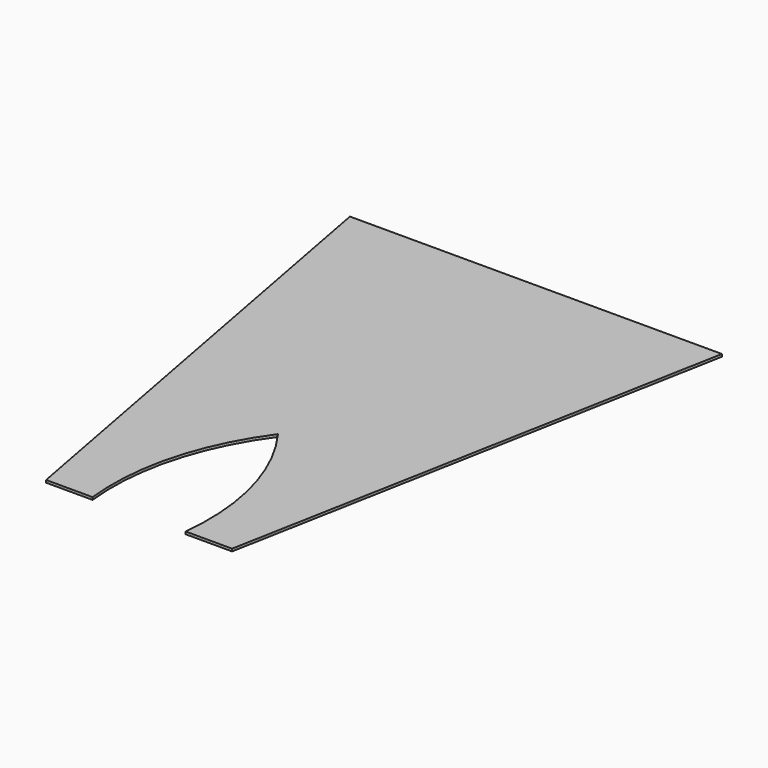
from build123d import *

# Parameters (mm, degrees)
F1_DEPTH = 4


with BuildPart() as f1:
    # F0 (on Top) → F1 (new body)
    with BuildSketch(Plane.XY):
        with BuildLine():
            ThreePointArc((0, 280), (63.755767, 147.032795), (75, 0))
            Line((75, 0), (150, 0))
            Line((150, 0), (300, 800))
            Line((300, 800), (-300, 800))
            Line((-300, 800), (-150, 0))
            Line((-150, 0), (-75, 0))
            ThreePointArc((-75, 0), (-63.755767, 147.032795), (0, 280))
        make_face()
    extrude(amount=F1_DEPTH)


solid = f1.part
